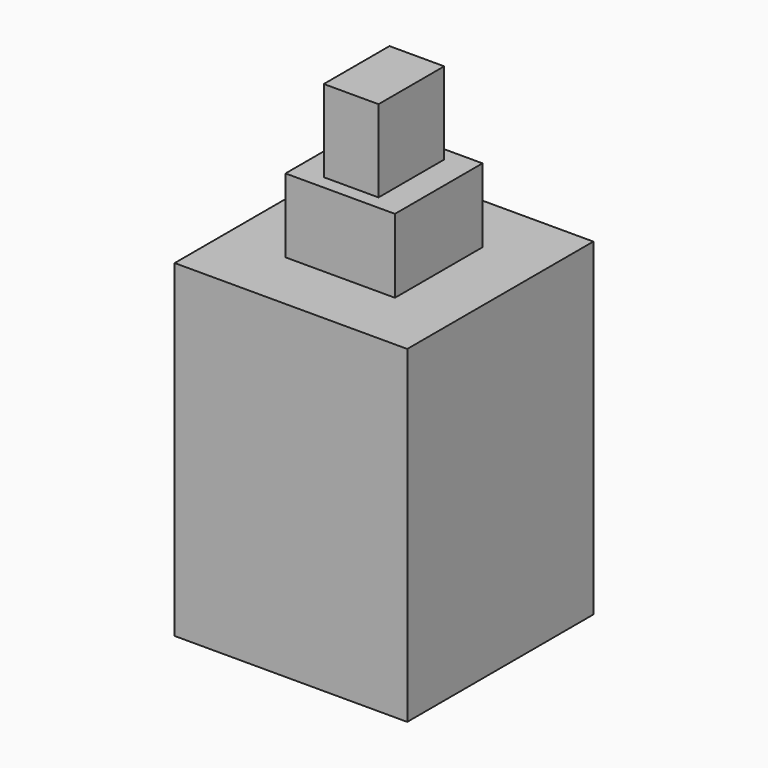
from build123d import *

# Parameters (mm, degrees)
BOX075_W     = 4
BOX075_H     = 4
BOX075_DEPTH = 5.5
BOX076_W     = 8.5
BOX076_H     = 8.5
BOX076_DEPTH = 3.5
BOX078_W     = 2
BOX078_H     = 3
BOX078_DEPTH = 3
BOX074_W     = 8.5
BOX074_H     = 8.5
BOX074_DEPTH = 8.5


with BuildPart() as plunger:
    # Box075 → Box075 (new body)
    with BuildSketch(Plane(origin=(-2, -2, 5.7), x_dir=(1, 0, 0), z_dir=(0, 0, 1))):
        with Locations((2, 2)):
            Rectangle(BOX075_W, BOX075_H)
    extrude(amount=BOX075_DEPTH)


with BuildPart() as pins:
    # Box076 → Box076 (new body)
    with BuildSketch(Plane(origin=(-4.25, -4.25, -3.5), x_dir=(1, 0, 0), z_dir=(0, 0, 1))):
        with Locations((4.25, 4.25)):
            Rectangle(BOX076_W, BOX076_H)
    extrude(amount=BOX076_DEPTH)


with BuildPart() as plunger001:
    # Box078 → Box078 (new body)
    with BuildSketch(Plane(origin=(-1, -1.5, 11.2), x_dir=(1, 0, 0), z_dir=(0, 0, 1))):
        with Locations((1, 1.5)):
            Rectangle(BOX078_W, BOX078_H)
    extrude(amount=BOX078_DEPTH)


with BuildPart() as switch002:
    # Box074 → Box074 (new body)
    with BuildSketch(Plane(origin=(-4.25, -4.25, 0), x_dir=(1, 0, 0), z_dir=(0, 0, 1))):
        with Locations((4.25, 4.25)):
            Rectangle(BOX074_W, BOX074_H)
    extrude(amount=BOX074_DEPTH)

    # Fusion024: union plunger, pins, plunger001
    add(plunger.part)
    add(pins.part)
    add(plunger001.part)


solid = switch002.part
